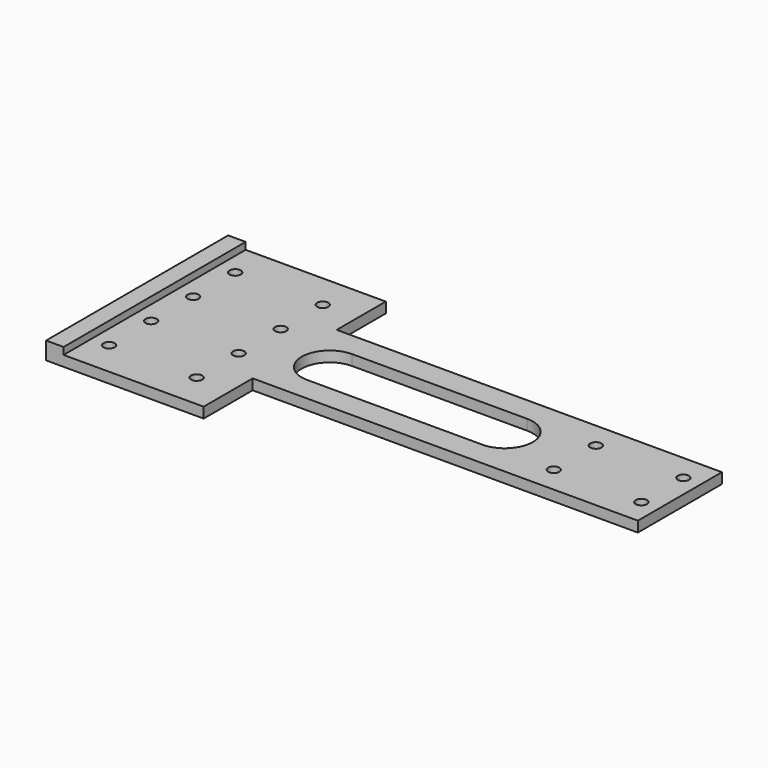
from build123d import *

# Parameters (mm, degrees)
SKETCH_R     = 1.6
PAD_DEPTH    = 3
SKETCH001_W  = 5
SKETCH001_H  = 65
PAD001_DEPTH = 2
POCKET_DEPTH = 5


with BuildPart() as part:
    # Sketch → Pad (new body)
    with BuildSketch(Plane.XY):
        Polygon((-80, 32.5), (-80, -32.5), (-35, -32.5), (-35, -15), (75, -15), (75, 15), (-35, 15), (-35, 32.5), align=None)
        with Locations((-70, 22.5)):
            Circle(SKETCH_R, mode=Mode.SUBTRACT)
        with Locations((-45, 22.5)):
            Circle(SKETCH_R, mode=Mode.SUBTRACT)
        with Locations((-70, 7.5)):
            Circle(SKETCH_R, mode=Mode.SUBTRACT)
        with Locations((-45, 7.5)):
            Circle(SKETCH_R, mode=Mode.SUBTRACT)
        with Locations((-70, -7.5)):
            Circle(SKETCH_R, mode=Mode.SUBTRACT)
        with Locations((-45, -7.5)):
            Circle(SKETCH_R, mode=Mode.SUBTRACT)
        with Locations((-70, -22.5)):
            Circle(SKETCH_R, mode=Mode.SUBTRACT)
        with Locations((-45, -22.5)):
            Circle(SKETCH_R, mode=Mode.SUBTRACT)
        with Locations((45, 7.5)):
            Circle(SKETCH_R, mode=Mode.SUBTRACT)
        with Locations((45, -7.5)):
            Circle(SKETCH_R, mode=Mode.SUBTRACT)
        with Locations((70, 7.5)):
            Circle(SKETCH_R, mode=Mode.SUBTRACT)
        with Locations((70, -7.5)):
            Circle(SKETCH_R, mode=Mode.SUBTRACT)
    extrude(amount=PAD_DEPTH)

    # Sketch001 → Pad001 (new body)
    with BuildSketch(Plane.XY.offset(3)):
        with Locations((-77.5, 0)):
            Rectangle(SKETCH001_W, SKETCH001_H)
    extrude(amount=PAD001_DEPTH)

    # Sketch002 → Pocket (cut)
    with BuildSketch(Plane.XY.offset(3)):
        with BuildLine():
            ThreePointArc((-25, 8), (-33.000002, 1e-06), (-25.000002, -8))
            Line((-25.000002, -8), (25.000002, -8))
            ThreePointArc((25.000002, -8), (33.000002, 1e-06), (25, 8))
            Line((-25, 8), (25, 8))
        make_face()
    extrude(amount=-POCKET_DEPTH, mode=Mode.SUBTRACT)


solid = part.part
